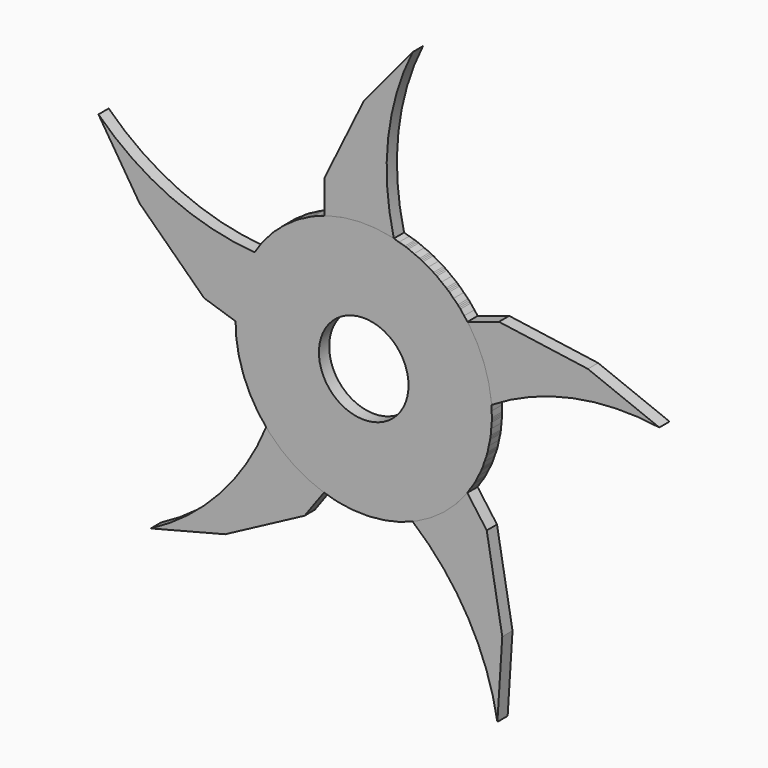
from build123d import *

# Parameters (mm, degrees)
F0_R     = 12.7
F1_DEPTH = 0.635
F3_DEPTH = 0.635
F4_COUNT = 5
F5_R     = 4.439905
F6_DEPTH = 0.635


with BuildPart() as f1:
    # F0 (on Front) → F1 (new body, symmetric)
    with BuildSketch(Plane.XZ):
        Circle(F0_R)
    extrude(amount=F1_DEPTH, both=True)

    # F2 (on Front) → F3 (join, symmetric)
    with BuildSketch(Plane.XZ):
        with BuildLine():
            Line((-3.907746, 9.398649), (3.907746, 9.398649))
            ThreePointArc((3.907746, 9.398649), (2.29972, 19.408061), (4.856857, 29.218012))
            Line((4.856857, 29.218012), (0, 23.355249))
            Line((0, 23.355249), (-3.907746, 15.359705))
            Line((-3.907746, 15.359705), (-3.907746, 9.398649))
        make_face()
    extrude(amount=F3_DEPTH, both=True)


with BuildPart() as f4_1:
    # F4: instance of F1
    add(f1.part.rotate(Axis((0, -0.635, 0), (0, 1, 0)), 1 * 360 / F4_COUNT))


with BuildPart() as f4_2:
    # F4: instance of F1
    add(f1.part.rotate(Axis((0, -0.635, 0), (0, 1, 0)), 2 * 360 / F4_COUNT))


with BuildPart() as f4_3:
    # F4: instance of F1
    add(f1.part.rotate(Axis((0, -0.635, 0), (0, 1, 0)), 3 * 360 / F4_COUNT))


with BuildPart() as f4_4:
    # F4: instance of F1
    add(f1.part.rotate(Axis((0, -0.635, 0), (0, 1, 0)), 4 * 360 / F4_COUNT))


with BuildPart() as f6_tool:
    # F5 (on Front) → F6 (new body, symmetric)
    with BuildSketch(Plane.XZ):
        Circle(F5_R)
    extrude(amount=F6_DEPTH, both=True)


with BuildPart() as f1_1:
    add(f1.part)

    # F6: cut by f6_tool
    add(f6_tool.part, mode=Mode.SUBTRACT)


with BuildPart() as f4_1_1:
    add(f4_1.part)

    # F6: cut by f6_tool
    add(f6_tool.part, mode=Mode.SUBTRACT)


with BuildPart() as f4_2_1:
    add(f4_2.part)

    # F6: cut by f6_tool
    add(f6_tool.part, mode=Mode.SUBTRACT)


with BuildPart() as f4_3_1:
    add(f4_3.part)

    # F6: cut by f6_tool
    add(f6_tool.part, mode=Mode.SUBTRACT)


with BuildPart() as f4_4_1:
    add(f4_4.part)

    # F6: cut by f6_tool
    add(f6_tool.part, mode=Mode.SUBTRACT)


solid = Compound([f1_1.part, f4_1_1.part, f4_2_1.part, f4_3_1.part, f4_4_1.part])
